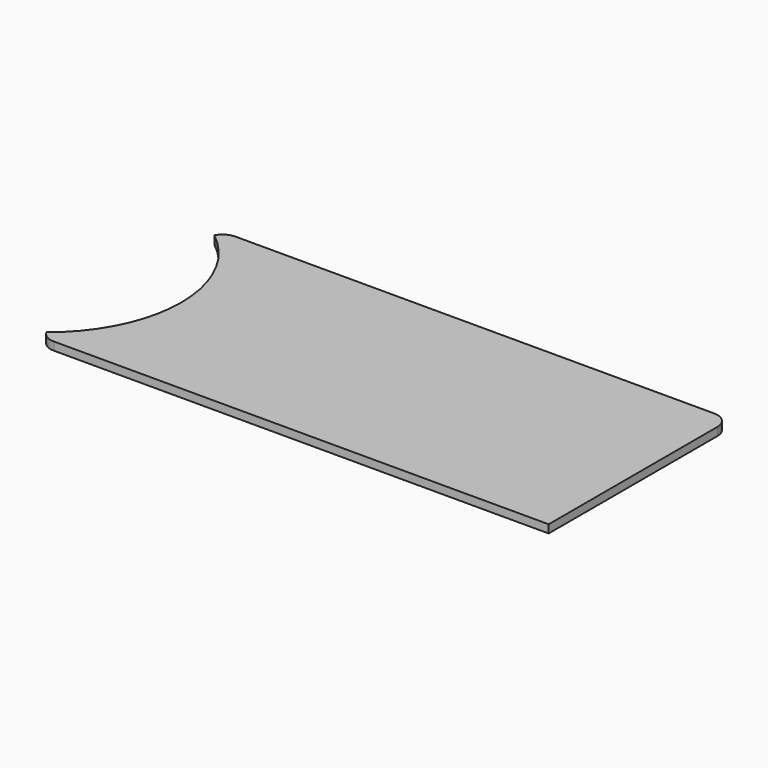
from build123d import *

# Parameters (mm, degrees)
F1_DEPTH = 1


with BuildPart() as f1:
    # F0 (on Top) → F1 (new body)
    with BuildSketch(Plane.XY):
        with BuildLine():
            ThreePointArc((0.235507, 1.058424), (0.971203, 0.284898), (2, 0))
            Line((2, 0), (63, 0))
            Line((63, 0), (63, 26))
            ThreePointArc((63, 26), (62.414214, 27.414214), (61, 28))
            Line((61, 28), (2, 28))
            ThreePointArc((2, 28), (0.971203, 27.715102), (0.235507, 26.941576))
            ThreePointArc((0.235507, 26.941576), (4.85153, 21.189024), (6.5, 14))
            ThreePointArc((6.5, 14), (4.85153, 6.810976), (0.235507, 1.058424))
        make_face()
    extrude(amount=F1_DEPTH)


solid = f1.part
